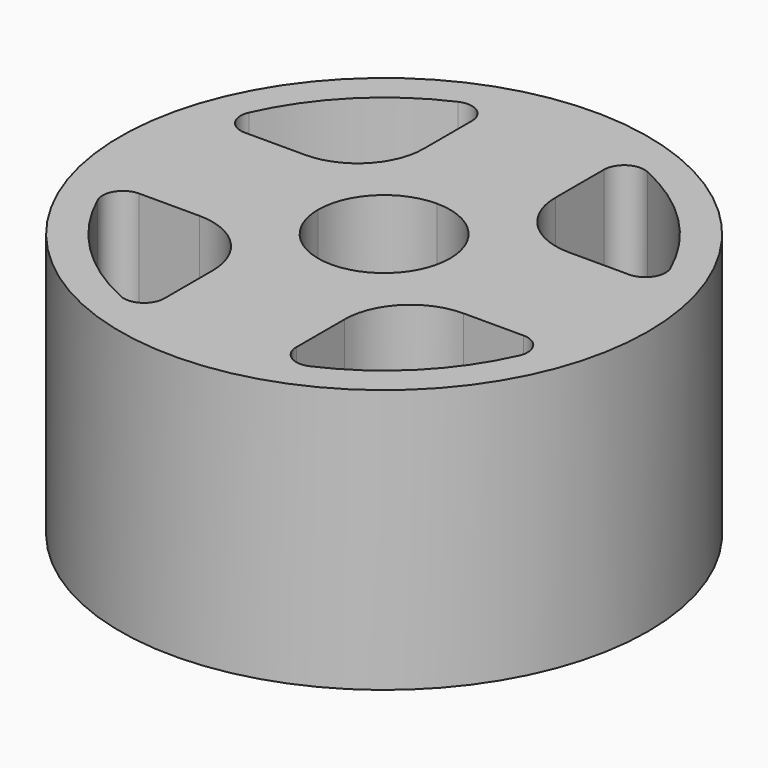
from build123d import *

# Parameters (mm, degrees)
F0_R     = 25.4
F1_DEPTH = 12.7


with BuildPart() as f1:
    # F0 (on Top) → F1 (new body, symmetric)
    with BuildSketch(Plane.XY):
        Circle(F0_R)
        with BuildLine():
            ThreePointArc((-12.7, -6.35), (-8.209872, -8.209872), (-6.35, -12.7))
            Line((-6.35, -12.7), (-6.35, -18.494382))
            ThreePointArc((-6.35, -18.494382), (-7.241618, -20.133529), (-9.102152, -20.275637))
            ThreePointArc((-9.102152, -20.275637), (-15.715448, -15.715448), (-20.275637, -9.102152))
            ThreePointArc((-20.275637, -9.102152), (-20.133529, -7.241617), (-18.494382, -6.35))
            Line((-18.494382, -6.35), (-12.7, -6.35))
        make_face(mode=Mode.SUBTRACT)
        with BuildLine():
            ThreePointArc((0, 6.35), (4.490128, 4.490128), (6.35, 0))
            ThreePointArc((6.35, 0), (4.490128, -4.490128), (0, -6.35))
            ThreePointArc((0, -6.35), (-4.490128, -4.490128), (-6.35, 0))
            ThreePointArc((-6.35, 0), (-4.490128, 4.490128), (0, 6.35))
        make_face(mode=Mode.SUBTRACT)
        with BuildLine():
            ThreePointArc((6.35, -12.7), (8.209872, -8.209872), (12.7, -6.35))
            Line((12.7, -6.35), (18.494382, -6.35))
            ThreePointArc((18.494382, -6.35), (20.133529, -7.241618), (20.275637, -9.102152))
            ThreePointArc((20.275637, -9.102152), (15.715448, -15.715448), (9.102152, -20.275637))
            ThreePointArc((9.102152, -20.275637), (7.241617, -20.133529), (6.35, -18.494382))
            Line((6.35, -18.494382), (6.35, -12.7))
        make_face(mode=Mode.SUBTRACT)
        with BuildLine():
            ThreePointArc((-20.275637, 9.102152), (-15.715448, 15.715448), (-9.102152, 20.275637))
            ThreePointArc((-9.102152, 20.275637), (-7.241618, 20.133529), (-6.35, 18.494382))
            Line((-6.35, 18.494382), (-6.35, 12.7))
            ThreePointArc((-6.35, 12.7), (-8.209872, 8.209872), (-12.7, 6.35))
            Line((-12.7, 6.35), (-18.494382, 6.35))
            ThreePointArc((-18.494382, 6.35), (-20.133529, 7.241618), (-20.275637, 9.102152))
        make_face(mode=Mode.SUBTRACT)
        with BuildLine():
            ThreePointArc((12.7, 6.35), (8.209872, 8.209872), (6.35, 12.7))
            Line((6.35, 12.7), (6.35, 18.494382))
            ThreePointArc((6.35, 18.494382), (7.241618, 20.133529), (9.102152, 20.275637))
            ThreePointArc((9.102152, 20.275637), (15.715448, 15.715448), (20.275637, 9.102152))
            ThreePointArc((20.275637, 9.102152), (20.133529, 7.241618), (18.494382, 6.35))
            Line((18.494382, 6.35), (12.7, 6.35))
        make_face(mode=Mode.SUBTRACT)
    extrude(amount=F1_DEPTH, both=True)


solid = f1.part
